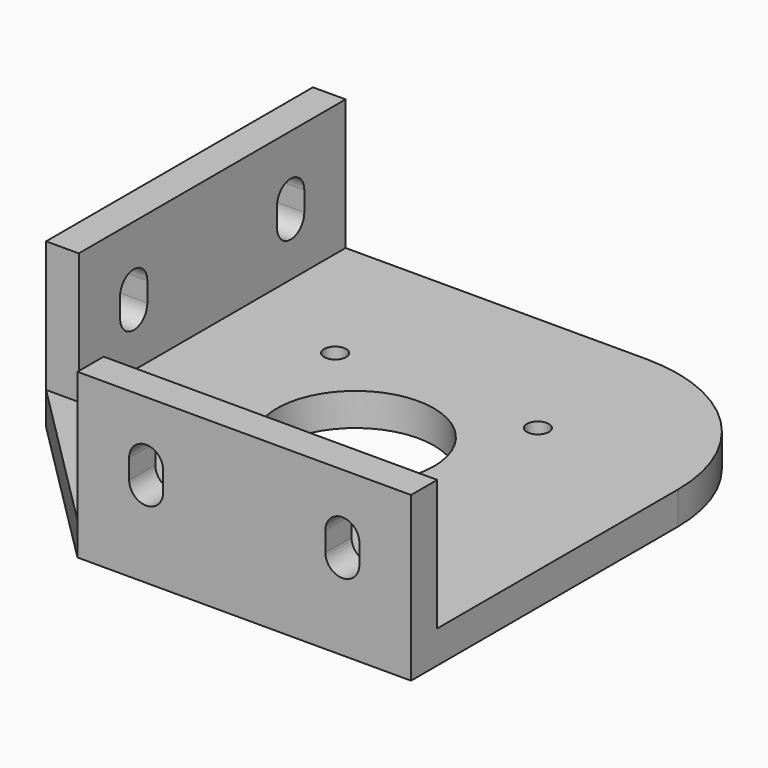
from build123d import *

# Parameters (mm, degrees)
PAD_DEPTH       = 5
SKETCH002_R     = 1.68
SKETCH002_R_2   = 12
POCKET_DEPTH    = 5
FILLET_R        = 24
SKETCH_W        = 5
SKETCH_H        = 51
SKETCH_W_2      = 51
SKETCH_H_2      = 5
PAD001_DEPTH    = 20
POCKET001_DEPTH = 5
POCKET002_DEPTH = 5


with BuildPart() as part:
    # Sketch001 → Pad (new body)
    with BuildSketch(Plane.XY):
        Polygon((75, 0), (75, 75), (0, 75), (0, 24), (24, 0), align=None)
    extrude(amount=PAD_DEPTH)

    # Sketch002 → Pocket (cut)
    with BuildSketch(Plane(origin=(0, 0, 0), x_dir=(1, 0, 0), z_dir=(0, 0, -1))):
        with Locations((21, -22)):
            Circle(SKETCH002_R)
        with Locations((52, -22)):
            Circle(SKETCH002_R)
        with Locations((52, -53)):
            Circle(SKETCH002_R)
        with Locations((21, -53)):
            Circle(SKETCH002_R)
        with Locations((36.5, -37.5)):
            Circle(SKETCH002_R_2)
    extrude(amount=-POCKET_DEPTH, mode=Mode.SUBTRACT)

    # Fillet
    fillet_edges = [part.edges().sort_by_distance(p)[0] for p in [
        (75, 75, 2.5),
    ]]
    fillet(fillet_edges, radius=FILLET_R)

    # Sketch → Pad001 (new body)
    with BuildSketch(Plane.XY.offset(5)):
        with Locations((2.5, 49.5)):
            Rectangle(SKETCH_W, SKETCH_H)
        with Locations((49.5, 2.5)):
            Rectangle(SKETCH_W_2, SKETCH_H_2)
    extrude(amount=PAD001_DEPTH)

    # Sketch004 → Pocket001 (cut)
    with BuildSketch(Plane.YZ.offset(5)):
        with BuildLine():
            ThreePointArc((67.1, 16), (64.5, 18.6), (61.9, 16))
            Line((61.9, 16), (61.9, 13))
            ThreePointArc((61.9, 13), (64.5, 10.4), (67.1, 13))
            Line((67.1, 16), (67.1, 13))
        make_face()
        with BuildLine():
            ThreePointArc((37.1, 16), (34.5, 18.6), (31.9, 16))
            Line((31.9, 16), (31.9, 13))
            ThreePointArc((31.9, 13), (34.5, 10.4), (37.1, 13))
            Line((37.1, 16), (37.1, 13))
        make_face()
    extrude(amount=-POCKET001_DEPTH, mode=Mode.SUBTRACT)

    # Sketch003 → Pocket002 (cut)
    with BuildSketch(Plane(origin=(0, 5, 0), x_dir=(-1, 0, 0), z_dir=(0, 1, 0))):
        with BuildLine():
            ThreePointArc((-61.9, 16), (-64.5, 18.6), (-67.1, 16))
            Line((-67.1, 16), (-67.1, 13))
            ThreePointArc((-67.1, 13), (-64.5, 10.4), (-61.9, 13))
            Line((-61.9, 16), (-61.9, 13))
        make_face()
        with BuildLine():
            Line((-31.9, 16), (-31.9, 13))
            ThreePointArc((-37.1, 13), (-34.5, 10.4), (-31.9, 13))
            Line((-37.1, 16), (-37.1, 13))
            ThreePointArc((-31.9, 16), (-34.5, 18.6), (-37.1, 16))
        make_face()
    extrude(amount=-POCKET002_DEPTH, mode=Mode.SUBTRACT)


solid = part.part
